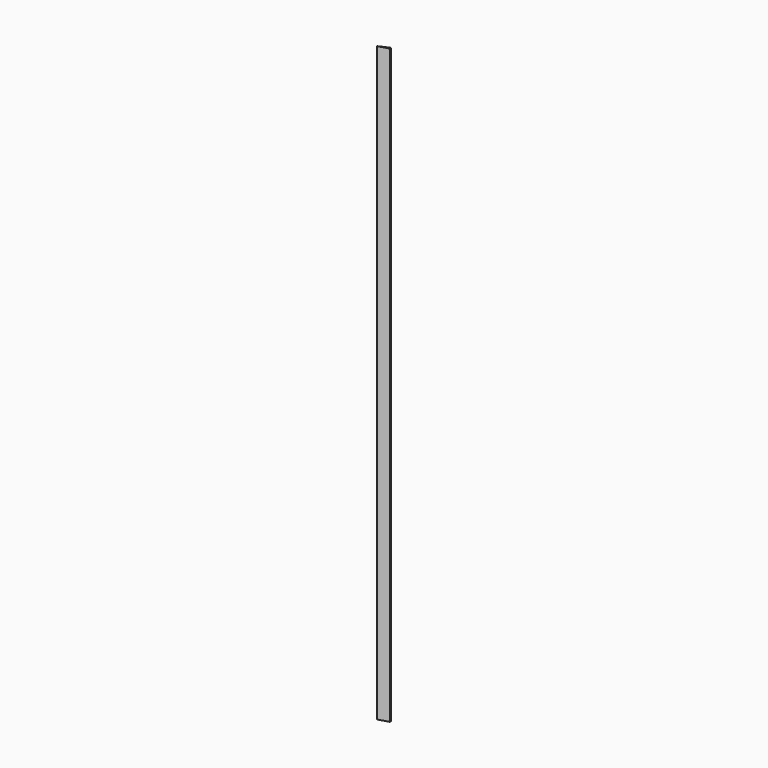
from build123d import *

# Parameters (mm, degrees)
F1_DEPTH = 76.2


with BuildPart() as f1:
    # F0 (on Top) → F1 (new body)
    with BuildSketch(Plane.XY):
        Polygon((47.1948987424, 51.9802123308), (47.1948987424, 52.2001382632), (46.470254911, 51.8766920652), align=None)
        Polygon((45.827337538, 51.5894816213), (47.1948987424, 51.9802123308), (46.470254911, 51.8766920652), (45.8273356607, 51.5897237944), align=None)
    extrude(amount=F1_DEPTH)


solid = f1.part
